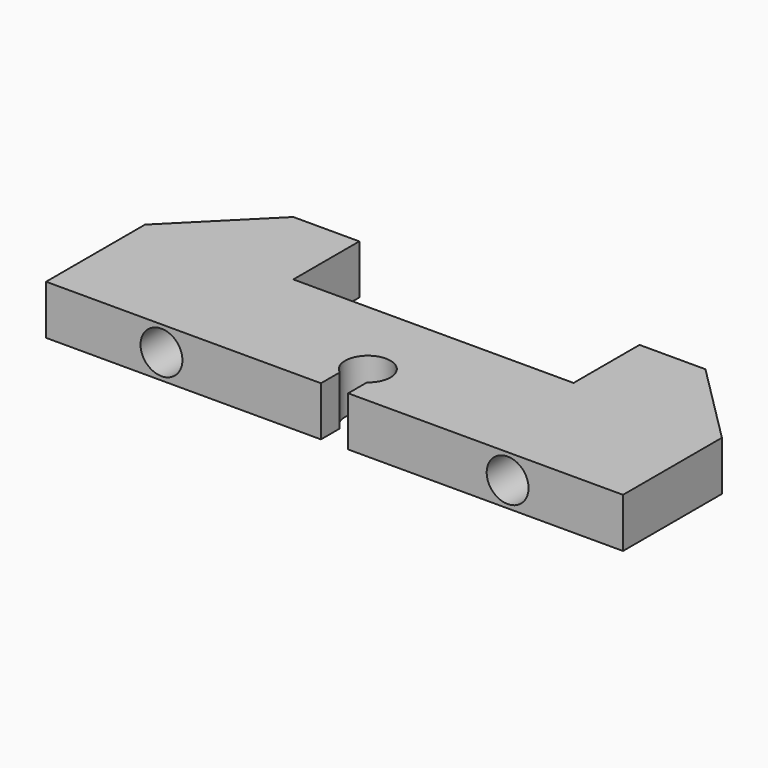
from build123d import *

# Parameters (mm, degrees)
F0_R     = 2.5
F1_DEPTH = 6
F3_D     = 5.08


with BuildPart() as f1:
    # F0 (on Top) → F1 (new body)
    with BuildSketch(Plane.XY):
        with BuildLine():
            Line((-35, 0), (-1.65, 0))
            Line((-1.65, 0), (-1.65, 2.85))
            ThreePointArc((-1.65, 2.85), (-1.229837, 7.509675), (2.75, 5.05))
            ThreePointArc((2.75, 5.05), (2.459675, 3.820163), (1.65, 2.85))
            Line((1.65, 2.85), (1.65, 0))
            Line((1.65, 0), (35, 0))
            Line((35, 0), (35, 15))
            Line((35, 15), (25, 25))
            Line((25, 25), (17, 25))
            Line((17, 25), (17, 15))
            Line((17, 15), (-17, 15))
            Line((-17, 15), (-17, 25))
            Line((-17, 25), (-25, 25))
            Line((-25, 25), (-35, 15))
            Line((-35, 15), (-35, 0))
        make_face()
        with Locations((-21, 20)):
            Circle(F0_R, mode=Mode.SUBTRACT)
        with Locations((21, 20)):
            Circle(F0_R, mode=Mode.SUBTRACT)
        with Locations((21, 20)):
            Circle(F0_R)
        with Locations((-21, 20)):
            Circle(F0_R)
    extrude(amount=F1_DEPTH)

    # F3 (through all)
    with Locations(Plane(origin=(0, 25, 0), x_dir=(-1, 0, 0), z_dir=(0, 1, 0))):
        with Locations((21, 3), (-21, 3)):
            Hole(F3_D / 2)


solid = f1.part
